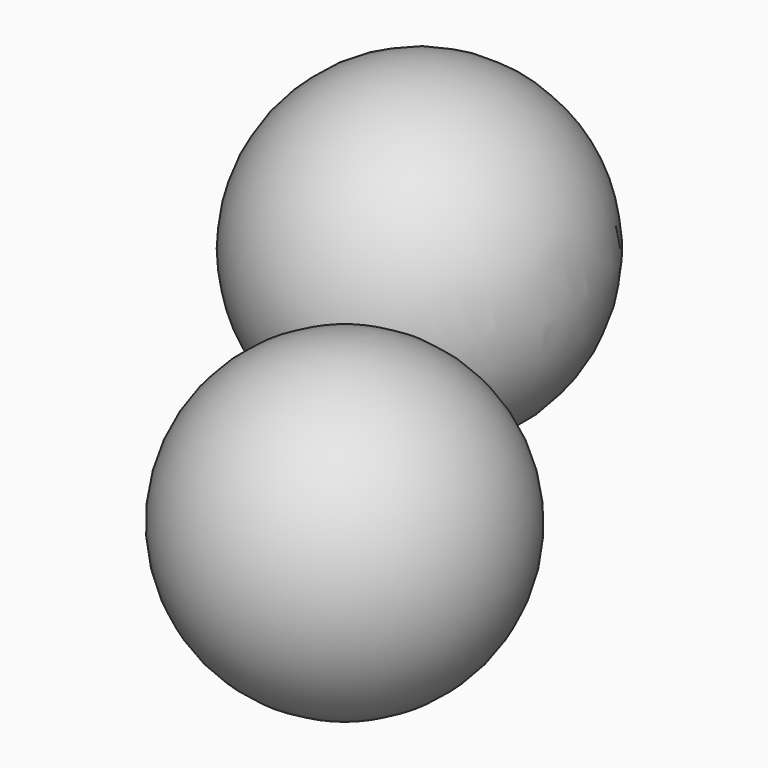
from build123d import *


with BuildPart() as f1:
    # F0 (on Top) → F1 (revolve)
    with BuildSketch(Plane.XY):
        with BuildLine():
            ThreePointArc((-45.4192087054, 0), (-28.7253931165, 16.693815589), (-45.4192087054, 33.3876311779))
            Line((-45.4192087054, 33.3876311779), (-45.4192087054, 0))
        make_face()
    revolve(axis=Axis((-45.4192087054, 16.693815589, 0), (0, -1, 0)))


with BuildPart() as f3:
    # F2 (on Right) → F3 (revolve)
    with BuildSketch(Plane.YZ):
        with BuildLine():
            ThreePointArc((-49.9310530722, 0), (-33.5380267352, 16.393026337), (-49.9310530722, 32.7860526741))
            Line((-49.9310530722, 32.7860526741), (-49.9310530722, 0))
        make_face()
    revolve(axis=Axis((0, -49.9310530722, 16.393026337), (0, 0, -1)))


solid = Compound([f1.part, f3.part])
